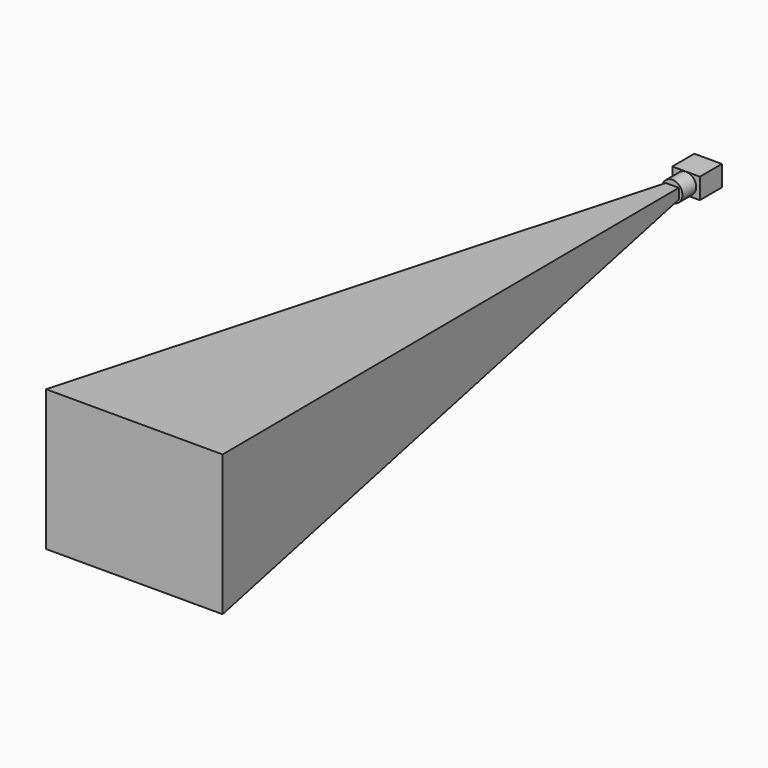
from build123d import *

# Parameters (mm, degrees)
F0_W      = 40
F0_H      = 30
F1_DEPTH  = 40
F3_R      = 14.5
F4_DEPTH  = 3
F5_W      = 12.8
F5_H      = 10.2
F6_DEPTH  = 3
F6_FACE_W = 12.8
F6_FACE_H = 10.2
F8_W      = 256
F8_H      = 204
F12_R     = 14.7401358377
F13_DEPTH = 25


with BuildPart() as f1:
    # F0 (on Front) → F1 (new body)
    with BuildSketch(Plane.XZ):
        Rectangle(F0_W, F0_H)
    extrude(amount=F1_DEPTH)

    # F3 (on face) → F4 (cut)
    with BuildSketch(Plane.XZ.offset(40)):
        Circle(F3_R)
    extrude(amount=-F4_DEPTH, mode=Mode.SUBTRACT)

    # F5 (on face) → F6 (join)
    with BuildSketch(Plane.XZ.offset(37)):
        Rectangle(F5_W, F5_H)
    extrude(amount=F6_DEPTH)

    # F6_face (on face) → F9 section 0
    with BuildSketch(Plane.XZ.offset(40)):
        Rectangle(F6_FACE_W, F6_FACE_H)
    # F8 (on offset) → F9 section 1
    with BuildSketch(Plane.XZ.offset(1040)):
        Rectangle(F8_W, F8_H)
    loft()

    # F10 (on face) → F11 (revolve)
    with BuildSketch(Plane.XZ):
        with BuildLine():
            ThreePointArc((0, -5), (5, 0), (0, 5))
            Line((0, 5), (0, -5))
        make_face()
    revolve(axis=Axis((0, 0, 0), (0, 0, -1)))

    # F12 (on face) → F13 (join)
    with BuildSketch(Plane.XZ.offset(40)):
        Circle(F12_R)
    extrude(amount=F13_DEPTH)


solid = f1.part
